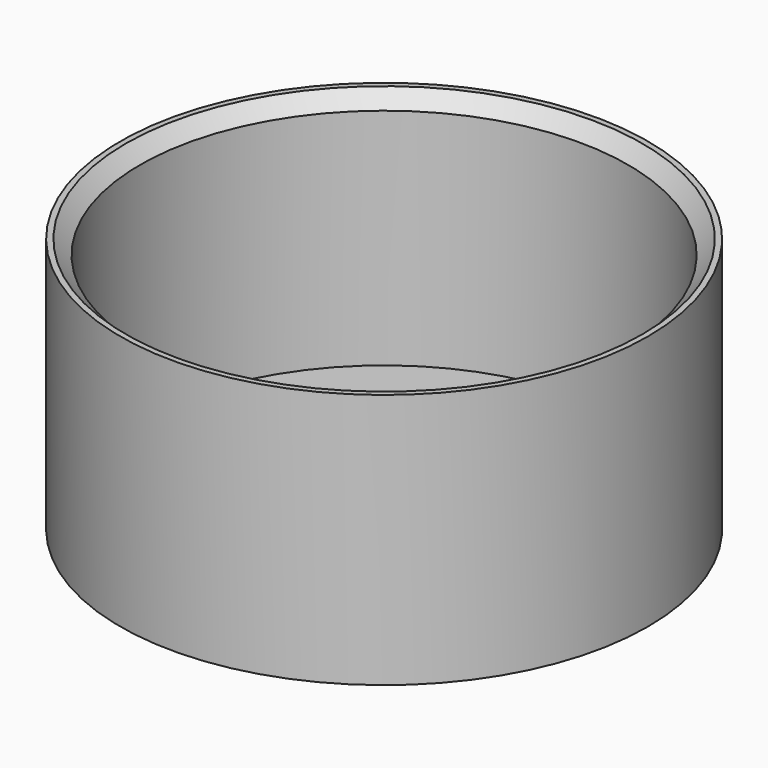
from build123d import *

# Parameters (mm, degrees)
F0_R     = 46.5
F0_R_2   = 2
F1_DEPTH = 3
F2_R     = 46.5
F2_R_2   = 43
F3_DEPTH = 42
F4_SIZE  = 2.5
F5_R     = 2
F6_DEPTH = 2


with BuildPart() as f1:
    # F0 (on Top) → F1 (new body)
    with BuildSketch(Plane.XY):
        Circle(F0_R)
        with Locations((-36, 0)):
            Circle(F0_R_2, mode=Mode.SUBTRACT)
        with Locations((36, 0)):
            Circle(F0_R_2, mode=Mode.SUBTRACT)
    extrude(amount=F1_DEPTH)

    # F2 (on face) → F3 (join)
    with BuildSketch(Plane.XY.offset(3)):
        Circle(F2_R)
        Circle(F2_R_2, mode=Mode.SUBTRACT)
    extrude(amount=F3_DEPTH)

    # F4
    f4_edges = [f1.edges().sort_by_distance(p)[0] for p in [
        (-43, 0, 45),
    ]]
    chamfer(f4_edges, length=F4_SIZE)

    # F5 (on face) → F6 (join)
    with BuildSketch(Plane.XY.offset(3)):
        with BuildLine():
            Line((-30, -7.5), (-30, 7.5))
            Line((-30, 7.5), (-42.3408785927, 7.5))
            ThreePointArc((-42.3408785927, 7.5), (-43, 0), (-42.3408785927, -7.5))
            Line((-42.3408785927, -7.5), (-30, -7.5))
        make_face()
        with Locations((-36, 0)):
            Circle(F5_R, mode=Mode.SUBTRACT)
        with BuildLine():
            ThreePointArc((43, 0), (42.834902705, 3.7644535138), (42.3408785927, 7.5))
            Line((42.3408785927, 7.5), (30, 7.5))
            Line((30, 7.5), (30, -7.5))
            Line((30, -7.5), (42.3408785927, -7.5))
            ThreePointArc((42.3408785927, -7.5), (42.834902705, -3.7644535138), (43, 0))
        make_face()
        with Locations((36, 0)):
            Circle(F5_R, mode=Mode.SUBTRACT)
    extrude(amount=F6_DEPTH)


solid = f1.part
